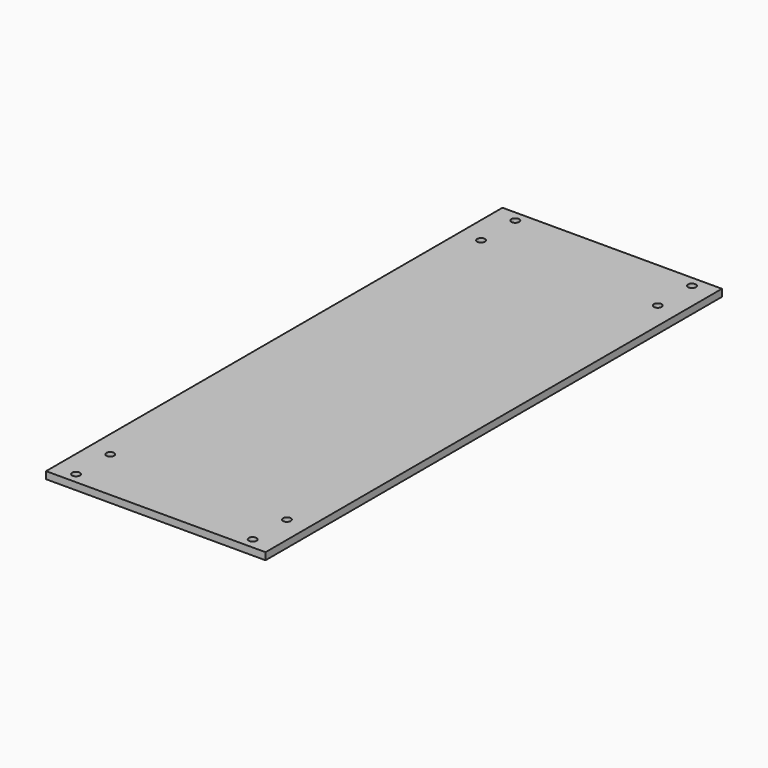
from build123d import *

# Parameters (mm, degrees)
F0_W     = 97.7011
F0_H     = 254
F0_R     = 1.7272
F1_DEPTH = 3.175


with BuildPart() as f1:
    # F0 (on Top) → F1 (new body)
    with BuildSketch(Plane.XY):
        Rectangle(F0_W, F0_H)
        with Locations((-39.32555, -122.2375)):
            Circle(F0_R, mode=Mode.SUBTRACT)
        with Locations((-39.32555, -103.1875)):
            Circle(F0_R, mode=Mode.SUBTRACT)
        with Locations((39.32555, -122.2375)):
            Circle(F0_R, mode=Mode.SUBTRACT)
        with Locations((39.32555, -103.1875)):
            Circle(F0_R, mode=Mode.SUBTRACT)
        with Locations((-39.32555, 103.1875)):
            Circle(F0_R, mode=Mode.SUBTRACT)
        with Locations((-39.32555, 122.2375)):
            Circle(F0_R, mode=Mode.SUBTRACT)
        with Locations((39.32555, 103.1875)):
            Circle(F0_R, mode=Mode.SUBTRACT)
        with Locations((39.32555, 122.2375)):
            Circle(F0_R, mode=Mode.SUBTRACT)
    extrude(amount=F1_DEPTH)


solid = f1.part
